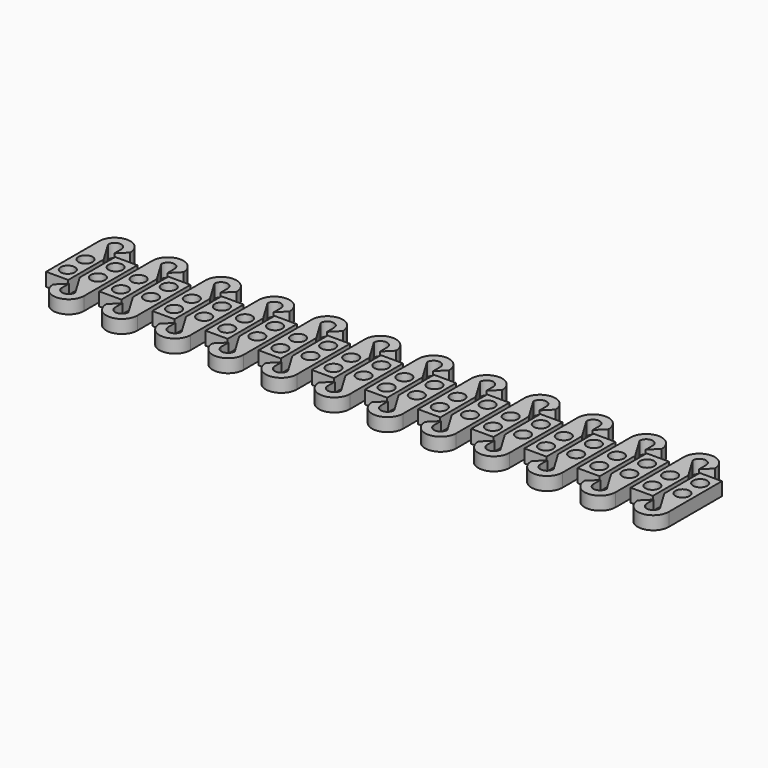
from build123d import *

# Parameters (mm, degrees)
PAD_DEPTH             = 3
SKETCH001_R           = 1.6
POCKET_DEPTH          = 3.001
CLONE_PLACEMENT_ANGLE = 180
ARRAY_X_COUNT         = 12
ARRAY_X_PITCH         = 12


with BuildPart() as pocket:
    # Sketch → Pad (new body)
    with BuildSketch(Plane.XY):
        with BuildLine():
            Line((2.5, 0), (-2.5, 0))
            Line((-2.5, 0), (-2.5, 15))
            ThreePointArc((4.5, 15), (1, 18.5), (-2.5, 15))
            Line((4.5, 15), (2.5, 13))
            Line((2.5, 13), (2.5, 15))
            ThreePointArc((2.5, 15), (1, 16.5), (-0.5, 15))
            Line((2.5, 10), (-0.5, 15))
            Line((2.5, 0), (2.5, 10))
        make_face()
    extrude(amount=PAD_DEPTH)

    # Sketch001 → Pocket (cut, through all)
    with BuildSketch(Plane.XY.offset(3)):
        with Locations((0, 3)):
            Circle(SKETCH001_R)
        with Locations((0, 8)):
            Circle(SKETCH001_R)
    extrude(amount=-POCKET_DEPTH, mode=Mode.SUBTRACT)


with BuildPart() as array:
    # Clone base: copy of Pocket
    add(pocket.part)


with BuildPart() as array_1:
    # Clone placement: moved
    add(array.part.moved(Location((6, 12, 0))).rotate(Axis((6, 12, 0), (0, 0, 1)), CLONE_PLACEMENT_ANGLE))

    # Fusion: union Pocket
    add(pocket.part)

    # Array X: Array ×12


with BuildPart() as array_2:
    add(array_1.part)
    with Locations(*[(i * ARRAY_X_PITCH, 0, 0) for i in range(1, ARRAY_X_COUNT)]):
        add(array_1.part)


solid = array_2.part
